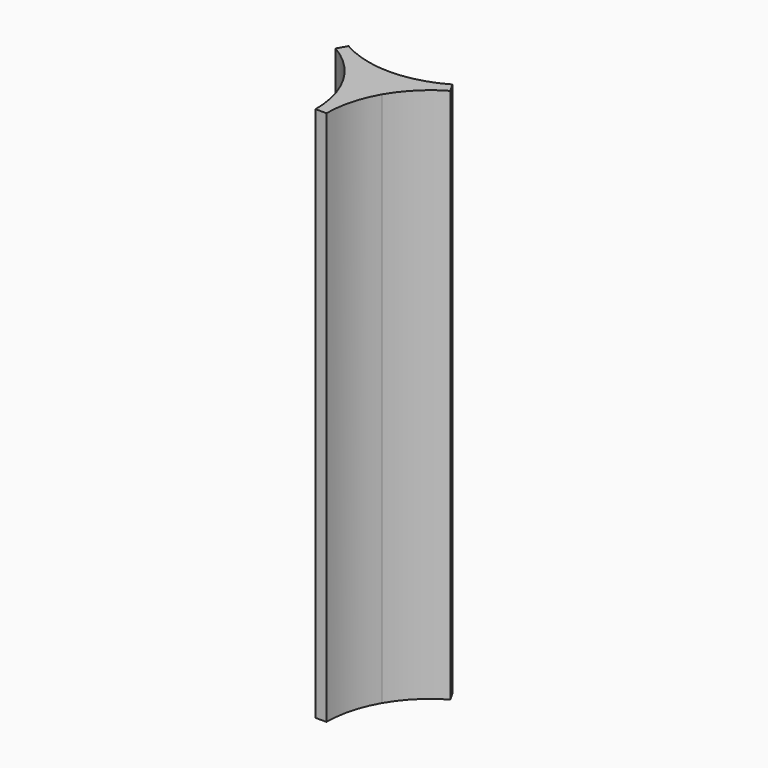
from build123d import *

# Parameters (mm, degrees)
F1_DEPTH = 49


with BuildPart() as f1:
    # F0 (on Top) → F1 (new body)
    with BuildSketch(Plane.XY):
        with BuildLine():
            ThreePointArc((-1.772759, -1.023503), (-0.823705, -3.314722), (-0.5, -5.773503))
            Line((-0.5, -5.773503), (0.5, -5.773503))
            ThreePointArc((0.5, -5.773503), (0.823705, -3.314722), (1.772759, -1.023503))
            ThreePointArc((1.772759, -1.023503), (0, -2.047005), (-1.772759, -1.023503))
        make_face()
        with BuildLine():
            Line((-4.75, 3.319764), (-5.25, 2.453739))
            ThreePointArc((-5.25, 2.453739), (-3.282486, 0.944012), (-1.772759, -1.023503))
            ThreePointArc((-1.772759, -1.023503), (-1.772759, 1.023503), (0, 2.047005))
            ThreePointArc((0, 2.047005), (-2.458781, 2.37071), (-4.75, 3.319764))
        make_face()
        with BuildLine():
            ThreePointArc((0, 2.047005), (-1.772759, 1.023503), (-1.772759, -1.023503))
            ThreePointArc((-1.772759, -1.023503), (0, -2.047005), (1.772759, -1.023503))
            ThreePointArc((1.772759, -1.023503), (1.977255, -0.529804), (2.047005, 0))
            ThreePointArc((2.047005, 0), (1.447451, 1.447451), (0, 2.047005))
        make_face()
        with BuildLine():
            ThreePointArc((4.75, 3.319764), (2.458781, 2.37071), (0, 2.047005))
            ThreePointArc((0, 2.047005), (1.447451, 1.447451), (2.047005, 0))
            ThreePointArc((2.047005, 0), (1.977255, -0.529804), (1.772759, -1.023503))
            ThreePointArc((1.772759, -1.023503), (3.282486, 0.944012), (5.25, 2.453739))
            Line((5.25, 2.453739), (4.75, 3.319764))
        make_face()
    extrude(amount=-F1_DEPTH)


solid = f1.part
